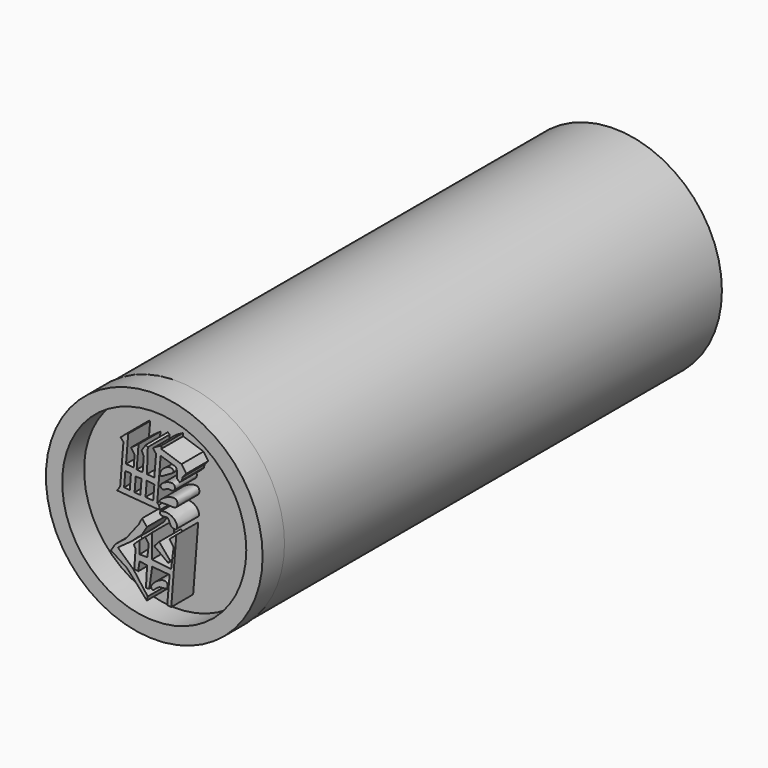
from build123d import *

# Parameters (mm, degrees)
F1_DEPTH = 5
F2_R     = 19.6704764398
F3_DEPTH = 100
F0_R     = 19.7896434189
F0_R_2   = 16.8093262281
F4_DEPTH = 5


with BuildPart() as f1:
    # F0 (on Front) → F1 (new body)
    with BuildSketch(Plane.XZ):
        Polygon((-41.5796749294, 43.1548319757), (-42.1691797674, 35.8056649566), (-42.7485704422, 34.9834747612), (-40.3496834117, 34.7910508435), (-35.6193675659, 34.4116140897), (-34.8944440484, 34.4116140897), (-35.1175740361, 35.1396650076), (-35.4076400399, 35.3851057589), (-34.7847773867, 43.1501339202), (-31.9937728345, 42.2574691474), (-31.7483320832, 41.5211431682), (-31.8315630384, 40.4835296467), (-31.3020721078, 40.0038696826), (-30.8899864178, 40.4587661755), (-30.7665653527, 41.0302616656), (-30.0971791148, 41.7888984084), (-30.9673808515, 43.0384166539), (-34.6713140607, 44.2879386246), (-34.6713140607, 44.8234453797), (-35.8538962901, 44.1763736308), (-36.1885912716, 43.9086183906), (-35.6204303075, 43.1984152092), (-35.9359305766, 39.2651749322), (-37.2823948352, 39.3731799881), (-37.1257290244, 43.7747426331), (-37.4827347696, 44.0201833844), (-38.2574704876, 42.8932918603), (-37.8620550036, 42.0566499233), (-38.0746781065, 39.4059461564), (-39.1595974577, 39.4929716934), (-38.822080276, 43.7006897318), (-40.2049049735, 42.7037253976), (-39.5390333262, 41.7801379355), (-39.7091111944, 39.6598319118), (-41.1035171997, 39.7716825588), (-40.702216146, 44.7745735937), (-40.9018468548, 44.7745735937), (-42.0905798674, 43.7443368137), align=None)
        Polygon((-41.4605582675, 35.8888042588), (-41.2312969565, 38.6204719543), (-40.2049049735, 38.5381411217), (-40.4240873536, 35.8056649566), align=None, mode=Mode.SUBTRACT)
        Polygon((-39.5444826137, 35.7151502744), (-39.3347032368, 38.3304022253), (-38.2720401508, 38.3304022253), (-38.4886132641, 35.6304549493), align=None, mode=Mode.SUBTRACT)
        Polygon((-37.5450731077, 35.6060767198), (-37.3265445232, 38.3304022253), (-35.932836109, 38.1510738569), (-36.1459821909, 35.4938502781), align=None, mode=Mode.SUBTRACT)
    extrude(amount=F1_DEPTH)


with BuildPart() as f1b:
    # F0 (on Front) → F1, piece 2 (new body)
    with BuildSketch(Plane.XZ):
        with BuildLine():
            add(Edge.make_bspline(
                [(-32.8847616911, 41.8292991817), (-33.3899181796, 41.9163890558), (-34.724803851, 41.1687672813), (-35.1610051658, 39.4598367454), (-33.6263030828, 40.5227774765), (-33.0038166649, 40.8162083153), (-32.1682868047, 41.3048289751), (-32.5853948261, 41.7776878035), (-32.8847616911, 41.8292991817)],
                knots=[0, 0, 0, 0, 0.2263847988, 0.3922229878, 0.574245921, 0.7285983688, 0.8658393804, 1, 1, 1, 1], degree=3))
        make_face()
    extrude(amount=F1_DEPTH)


with BuildPart() as f1c:
    # F0 (on Front) → F1, piece 3 (new body)
    with BuildSketch(Plane.XZ):
        with BuildLine():
            add(Edge.make_bspline(
                [(-32.4050933123, 39.3437333405), (-32.9469671099, 39.6823583375), (-35.3833302061, 38.6995477605), (-34.3044056061, 37.54626355), (-33.5639546752, 38.5486867669), (-32.2264999458, 37.8596789326), (-32.0552685879, 39.1251226663), (-32.4050933123, 39.3437333405)],
                knots=[0, 0, 0, 0, 0.2890600572, 0.444461227, 0.6228512175, 0.8133876278, 1, 1, 1, 1], degree=3))
        make_face()
    extrude(amount=F1_DEPTH)


with BuildPart() as f1d:
    # F0 (on Front) → F1, piece 4 (new body)
    with BuildSketch(Plane.XZ):
        with BuildLine():
            add(Edge.make_bspline(
                [(-31.9254212081, 36.9889847934), (-32.3258786486, 37.3596972584), (-34.0827070521, 36.8541577833), (-35.5084277609, 35.443865143), (-33.5319460304, 35.8334021386), (-31.686615015, 35.3273107748), (-31.6301066857, 36.7156054939), (-31.9254212081, 36.9889847934)],
                knots=[0, 0, 0, 0, 0.23872911, 0.4233660064, 0.6120543016, 0.8239508972, 1, 1, 1, 1], degree=3))
        make_face()
    extrude(amount=F1_DEPTH)


with BuildPart() as f1e:
    # F0 (on Front) → F1, piece 5 (new body)
    with BuildSketch(Plane.XZ):
        with BuildLine():
            add(Edge.make_bspline(
                [(-31.9254212081, 33.2388281822), (-32.1576729025, 33.7255249101), (-33.0813895627, 34.4976511923), (-35.2075582895, 34.3752193824), (-34.6827847742, 33.3037729464), (-33.2204831342, 33.9482992986), (-33.164638359, 32.245918687), (-31.667575709, 32.0343479274), (-31.7514399686, 32.8742405298), (-31.9254212081, 33.2388281822)],
                knots=[0, 0, 0, 0, 0.1744229587, 0.3443637696, 0.4463996982, 0.588495804, 0.7376108212, 0.8693386387, 1, 1, 1, 1], degree=3))
        make_face()
    extrude(amount=F1_DEPTH)


with BuildPart() as f1f:
    # F0 (on Front) → F1, piece 6 (new body)
    with BuildSketch(Plane.XZ):
        Polygon((-38.7543961406, 20.7027792931), (-37.3049490154, 19.0462674946), (-37.1387079358, 19.7579413652), (-39.7209525108, 23.2340395451), (-42.6011495292, 25.8659422398), (-40.1182211936, 27.653651312), (-38.1815358996, 29.3917004019), (-37.2876822948, 30.8814570308), (-38.1815358996, 31.9739431143), (-38.7774407864, 30.8317989111), (-41.1113910377, 27.802625671), (-43.0331647859, 26.271359936), (-43.8619740307, 24.9821022153), (-40.9630797803, 23.1185257435), align=None)
    extrude(amount=F1_DEPTH)


with BuildPart() as f1g:
    # F0 (on Front) → F1, piece 7 (new body)
    with BuildSketch(Plane.XZ):
        Polygon((-39.387986064, 26.2991040945), (-39.6001301706, 23.3998131007), (-38.8791119831, 23.2396339033), (-38.6415381689, 24.9322737646), (-37.2599773109, 24.738362059), (-37.4631248415, 21.0026744753), (-36.848898977, 21.1057402194), (-36.3279175981, 24.8175712232), (-33.1467017531, 24.5438050479), (-33.5798734779, 19.5102659235), (-32.8433252871, 19.453600049), (-31.9281183183, 31.3495434821), (-33.1467017531, 30.2835088223), (-32.4141656629, 29.2200065182), (-32.8726023436, 25.5372300744), (-36.3493598998, 25.9700212628), (-36.3493598998, 30.2835088223), (-37.6044549048, 29.1438251734), (-36.9552671909, 28.30709517), (-37.2005142272, 26.0421540588), (-38.6431515217, 26.0421540588), (-38.6431515217, 28.30709517), (-39.6962761879, 27.3116752505), (-39.387986064, 26.7490465194), align=None)
    extrude(amount=F1_DEPTH)


with BuildPart() as f1h:
    # F0 (on Front) → F1, piece 8 (new body)
    with BuildSketch(Plane.XZ):
        with BuildLine():
            add(Edge.make_bspline(
                [(-33.6274653673, 23.0885390192), (-33.828339504, 23.3671680659), (-34.9027156497, 23.3458686855), (-36.8776589881, 21.7184014786), (-36.1245036706, 20.8130052766), (-35.2136699856, 22.2884176318), (-33.481365593, 21.7903943146), (-33.4506161377, 22.8432345064), (-33.6274653673, 23.0885390192)],
                knots=[0, 0, 0, 0, 0.1632628382, 0.3926907011, 0.5015984401, 0.6767348911, 0.8562636901, 1, 1, 1, 1], degree=3))
        make_face()
    extrude(amount=F1_DEPTH)


with BuildPart() as f1i:
    # F0 (on Front) → F1, piece 9 (new body)
    with BuildSketch(Plane.XZ):
        Polygon((-33.0397825688, 26.8568928501), (-35.0579544902, 29.23033759), (-35.9511598945, 28.2459892333), (-33.3991460502, 26.3684373349), align=None)
    extrude(amount=F1_DEPTH)


with BuildPart() as f3:
    # F2 (on face) → F3 (new body)
    with BuildSketch(Plane.XZ):
        with Locations((-35.955555737, 33.0255739391)):
            Circle(F2_R)
    extrude(amount=-F3_DEPTH)

    # F0 (on Front) → F4 (join)
    with BuildSketch(Plane.XZ):
        with Locations((-35.9511598945, 33.0312512815)):
            Circle(F0_R)
        with Locations((-35.9511598945, 33.0312512815)):
            Circle(F0_R_2, mode=Mode.SUBTRACT)
    extrude(amount=F4_DEPTH)


solid = Compound([f1.part, f1b.part, f1c.part, f1d.part, f1e.part, f1f.part, f1g.part, f1h.part, f1i.part, f3.part])
